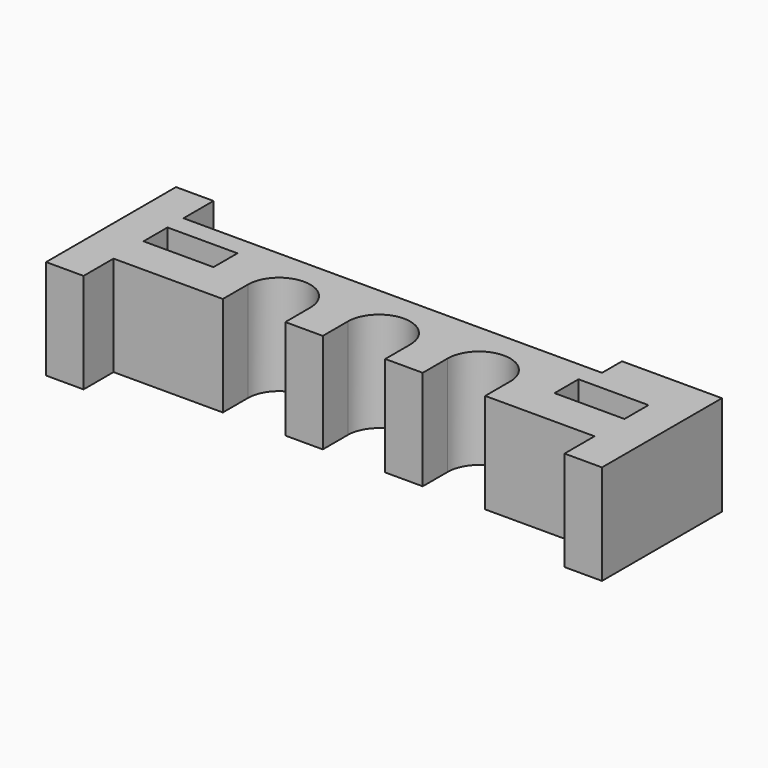
from build123d import *

# Parameters (mm, degrees)
SKETCH_W  = 5.6
SKETCH_H  = 2.4
PAD_DEPTH = 8


with BuildPart() as part:
    # Sketch → Pad (new body)
    with BuildSketch(Plane.XY):
        with BuildLine():
            Line((-22.25, -3), (-19.25, -3))
            Line((-19.25, -3), (-19.25, 0))
            Line((-19.25, 0), (-10.5, 0))
            Line((-10.5, 0), (-10.5, 2.5))
            ThreePointArc((-5.5, 2.5), (-8, 5), (-10.5, 2.5))
            Line((-5.5, 2.5), (-5.5, 0))
            Line((-5.5, 0), (-2.5, 0))
            Line((-2.5, 0), (-2.5, 2.5))
            ThreePointArc((2.5, 2.5), (0, 5), (-2.5, 2.5))
            Line((2.5, 2.5), (2.5, 0))
            Line((2.5, 0), (5.5, 0))
            Line((5.5, 0), (5.5, 2.5))
            ThreePointArc((10.5, 2.5), (8, 5), (5.5, 2.5))
            Line((10.5, 2.5), (10.5, 0))
            Line((10.5, 0), (19.25, 0))
            Line((19.25, 0), (19.25, -3))
            Line((19.25, -3), (22.25, -3))
            Line((22.25, -3), (22.25, 9))
            Line((22.25, 9), (14.25, 9))
            Line((14.25, 9), (14.25, 7))
            Line((14.25, 7), (-19.25, 7))
            Line((-19.25, 7), (-19.25, 10))
            Line((-19.25, 10), (-22.25, 10))
            Line((-22.25, 10), (-22.25, -3))
        make_face()
        with Locations((-16.45, 4.2)):
            Rectangle(SKETCH_W, SKETCH_H, mode=Mode.SUBTRACT)
        with Locations((16.45, 4.2)):
            Rectangle(SKETCH_W, SKETCH_H, mode=Mode.SUBTRACT)
    extrude(amount=PAD_DEPTH)


solid = part.part
